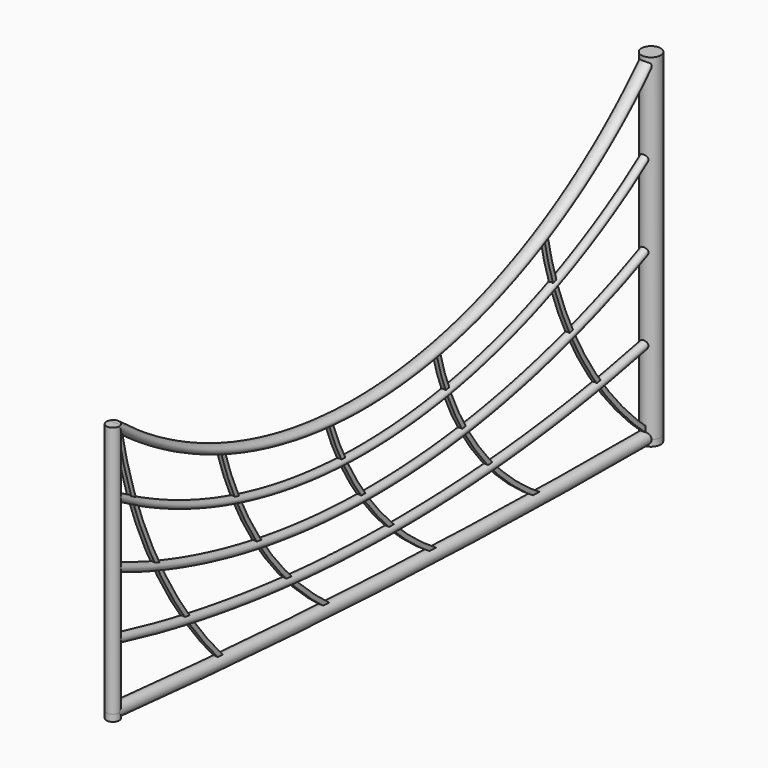
from build123d import *

# Parameters (mm, degrees)
F1_R      = 38
F1_R_2    = 25.5
F7_R      = 57
F8_DEPTH  = 2000
F10_DEPTH = 50
F11_DEPTH = 38
F13_R     = 38
F14_DEPTH = 1500
F15_DEPTH = 40
F17_DEPTH = 12.5


with BuildPart() as f2:
    # F2: sweep along a path in F0
    with BuildLine(Plane.YZ) as f2_path:
        ThreePointArc((-4000, 177.0000000002), (-2002.0142681387, 42.979816075), (0, 2e-10))
    # F1 (on Front) → F2 (sweep)
    with BuildSketch(Plane.XZ):
        Circle(F1_R)
    sweep(path=f2_path.line)


with BuildPart() as f3:
    # F3: sweep along a path in F0
    with BuildLine(Plane.YZ) as f3_path:
        ThreePointArc((-4000, 552), (-2003.0299153039, 292.9295920081), (0, 500))
    # F1 (on Front) → F3 (sweep)
    with BuildSketch(Plane.XZ):
        with Locations((0, 500.0000000002)):
            Circle(F1_R_2)
    sweep(path=f3_path.line)


with BuildPart() as f4:
    # F4: sweep along a path in F0
    with BuildLine(Plane.YZ) as f4_path:
        ThreePointArc((-4000, 927), (-1992.3263284343, 543.0248457124), (0, 1000))
    # F1 (on Front) → F4 (sweep)
    with BuildSketch(Plane.XZ):
        with Locations((0, 1000)):
            Circle(F1_R_2)
    sweep(path=f4_path.line)


with BuildPart() as f5:
    # F5: sweep along a path in F0
    with BuildLine(Plane.YZ) as f5_path:
        ThreePointArc((-4000, 1302), (-1969.9659671566, 794.2518617493), (0, 1500))
    # F1 (on Front) → F5 (sweep)
    with BuildSketch(Plane.XZ):
        with Locations((0, 1500)):
            Circle(F1_R_2)
    sweep(path=f5_path.line)


with BuildPart() as f6:
    # F6: sweep along a path in F0
    with BuildLine(Plane.YZ) as f6_path:
        ThreePointArc((-4000, 1677), (-1936.1144817205, 1047.3480708425), (0, 2000))
    # F1 (on Front) → F6 (sweep)
    with BuildSketch(Plane.XZ):
        with Locations((0, 2000.0000000002)):
            Circle(F1_R)
    sweep(path=f6_path.line)

    # F9 (on face) → F10 (cut)
    with BuildSketch(Plane.XZ):
        with BuildLine():
            Line((-38, 2000), (38, 2000))
            ThreePointArc((38, 2000.0000000002), (-1e-10, 2038.0000000002), (-38, 2000))
        make_face()
    extrude(amount=F10_DEPTH, mode=Mode.SUBTRACT)


with BuildPart() as f8:
    # F7 (on Top) → F8 (new body)
    with BuildSketch(Plane.XY):
        Circle(F7_R)
    extrude(amount=F8_DEPTH)


with BuildPart() as f11:
    # F11 (new): a face of the model
    f11_faces = [f8.part.faces().sort_by_distance(p)[0] for p in [
        (0, 0, 0),
    ]]
    extrude(f11_faces, amount=F11_DEPTH)


with BuildPart() as f14:
    # F13 (on offset) → F14 (new body)
    with BuildSketch(Plane.XY.offset(178)):
        with Locations((0, -4000)):
            Circle(F13_R)
    extrude(amount=F14_DEPTH)


with BuildPart() as f15:
    # F15 (new): a face of the model
    f15_faces = [f14.part.faces().sort_by_distance(p)[0] for p in [
        (0, -4000, 178),
    ]]
    extrude(f15_faces, amount=F15_DEPTH)


with BuildPart() as f17:
    # F16 (on Right) → F17 (new body, symmetric)
    with BuildSketch(Plane.YZ):
        with BuildLine():
            ThreePointArc((-800, 1370.1369762421), (-518.5695230646, 615.8377322941), (0, 0))
            Line((0, 0), (0, 17.0240310868))
            ThreePointArc((0, 17.0240310868), (-510.1010666768, 627.1288658148), (-787.2235692681, 1372.5375632021))
            Line((-787.2235692681, 1372.5375632021), (-800, 1370.1369762421))
        make_face()
        with BuildLine():
            Line((-20.1127346002, 0), (0, 0))
            ThreePointArc((0, 0), (-518.5695230646, 615.8377322941), (-800, 1370.1369762421))
            Line((-800, 1370.1369762421), (-812.7764307319, 1367.736389282))
            ThreePointArc((-812.7764307319, 1367.736389282), (-533.664934463, 615.9338192413), (-20.1127346002, 0))
        make_face()
    extrude(amount=F17_DEPTH, both=True)


with BuildPart() as f17b:
    # F16 (on Right) → F17, piece 2 (new body, symmetric)
    with BuildSketch(Plane.YZ):
        with BuildLine():
            ThreePointArc((-1600, 1084.9983692169), (-1309.740357907, 461.5845133828), (-800, 0))
            Line((-800, 0), (-793.3578920586, 11.1750795118))
            ThreePointArc((-793.3578920586, 11.1750795118), (-1299.2770619611, 469.2993975653), (-1587.3608185365, 1088.0399299892))
            Line((-1587.3608185365, 1088.0399299892), (-1600, 1084.9983692169))
        make_face()
        with BuildLine():
            Line((-825.1812737911, 0), (-800, 0))
            ThreePointArc((-800, 0), (-1309.740357907, 461.5845133828), (-1600, 1084.9983692169))
            Line((-1600, 1084.9983692169), (-1612.6391814635, 1081.9568084446))
            ThreePointArc((-1612.6391814635, 1081.9568084446), (-1326.5998401347, 462.6009345477), (-825.1812737911, 0))
        make_face()
    extrude(amount=F17_DEPTH, both=True)


with BuildPart() as f17c:
    # F16 (on Right) → F17, piece 3 (new body, symmetric)
    with BuildSketch(Plane.YZ):
        with BuildLine():
            Line((-2387.7251843922, 1042.6698365556), (-2400, 1038.3886098862))
            ThreePointArc((-2400, 1038.3886098862), (-2085.6703979002, 470.5035704526), (-1600, 39.8984365165))
            Line((-1600, 39.8984365165), (-1593.1449997405, 50.9442036443))
            ThreePointArc((-1593.1449997405, 50.9442036443), (-2075.5250927948, 478.632087188), (-2387.7251843922, 1042.6698365556))
        make_face()
        with BuildLine():
            ThreePointArc((-1600, 39.8984365165), (-2085.6703979002, 470.5035704526), (-2400, 1038.3886098862))
            Line((-2400, 1038.3886098862), (-2412.2748156078, 1034.1073832167))
            ThreePointArc((-2412.2748156078, 1034.1073832167), (-2095.8157030057, 462.3750537172), (-1606.8550002595, 28.8526693887))
            Line((-1606.8550002595, 28.8526693887), (-1600, 39.8984365165))
        make_face()
    extrude(amount=F17_DEPTH, both=True)


with BuildPart() as f17d:
    # F16 (on Right) → F17, piece 4 (new body, symmetric)
    with BuildSketch(Plane.YZ):
        with BuildLine():
            Line((-3187.5426576439, 1219.0977096394), (-3200, 1215.3809070587))
            ThreePointArc((-3200, 1215.3809070587), (-2892.6170405196, 581.0699226017), (-2400, 76.9239515066))
            Line((-2400, 76.9239515066), (-2392.2816697319, 87.3847056799))
            ThreePointArc((-2392.2816697319, 87.3847056799), (-2881.9805626144, 588.544234461), (-3187.5426576439, 1219.0977096394))
        make_face()
        with BuildLine():
            ThreePointArc((-2400, 76.9239515066), (-2892.6170405196, 581.0699226017), (-3200, 1215.3809070587))
            Line((-3200, 1215.3809070587), (-3212.4573423561, 1211.664104478))
            ThreePointArc((-3212.4573423561, 1211.664104478), (-2903.2535184249, 573.5956107424), (-2407.7183302681, 66.4631973334))
            Line((-2407.7183302681, 66.4631973334), (-2400, 76.9239515066))
        make_face()
    extrude(amount=F17_DEPTH, both=True)


with BuildPart() as f17e:
    # F16 (on Right) → F17, piece 5 (new body, symmetric)
    with BuildSketch(Plane.YZ):
        with BuildLine():
            Line((-3951.6804831163, 1635.5212993627), (-3964.4405903601, 1633.0354065395))
            ThreePointArc((-3964.4405903601, 1633.0354065395), (-3687.3962448429, 828.0352857105), (-3200, 130.021199584))
            Line((-3200, 130.021199584), (-3190.4757218555, 138.8692573271))
            ThreePointArc((-3190.4757218555, 138.8692573271), (-3675.8088489469, 833.9286935828), (-3951.6804831163, 1635.5212993627))
        make_face()
        with BuildLine():
            ThreePointArc((-3200, 130.021199584), (-3687.3962448429, 828.0352857105), (-3964.4405903601, 1633.0354065395))
            Line((-3964.4405903601, 1633.0354065395), (-3977.2006976038, 1630.5495137164))
            ThreePointArc((-3977.2006976038, 1630.5495137164), (-3698.9836407389, 822.1418778381), (-3209.5242781446, 121.1731418409))
            Line((-3209.5242781446, 121.1731418409), (-3200, 130.021199584))
        make_face()
    extrude(amount=F17_DEPTH, both=True)


solid = Compound([f2.part, f3.part, f4.part, f5.part, f6.part, f8.part, f11.part, f14.part, f15.part, f17.part, f17b.part, f17c.part, f17d.part, f17e.part])
